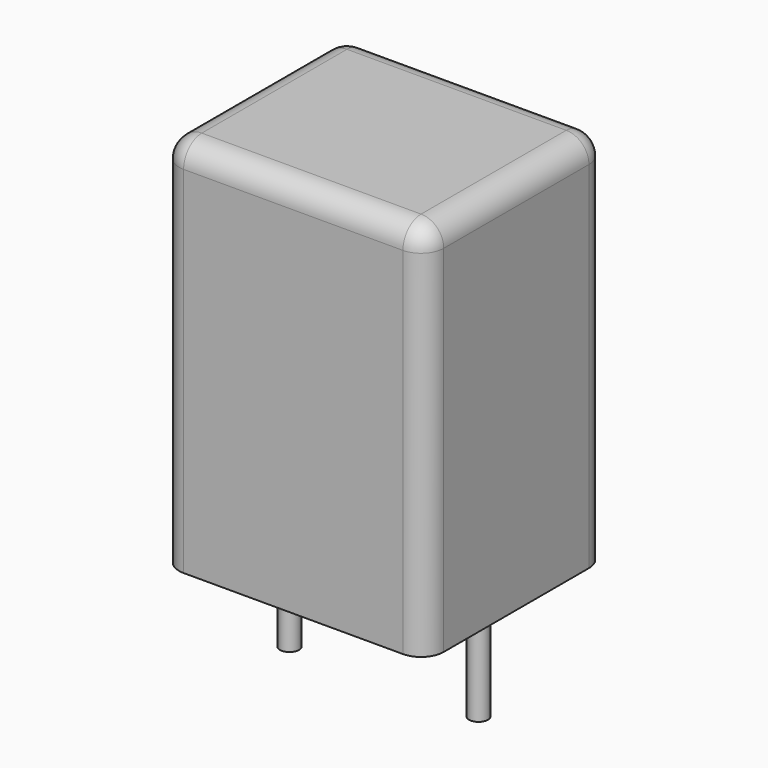
from build123d import *

# Parameters (mm, degrees)
SKETCH_W     = 7
SKETCH_H     = 6
PAD_DEPTH    = 10
FILLET_R     = 0.6
SKETCH001_R  = 0.25
PAD001_DEPTH = 3.2


with BuildPart() as fillet_body:
    # Sketch → Pad (new body)
    with BuildSketch(Plane.XY.offset(0.1)):
        with Locations((2.5, 0)):
            Rectangle(SKETCH_W, SKETCH_H)
    extrude(amount=PAD_DEPTH)

    # Fillet
    fillet_edges = [fillet_body.edges().sort_by_distance(p)[0] for p in [
        (-1, 0, 10.1),
        (-1, -3, 5.1),
        (2.5, -3, 10.1),
        (6, -3, 5.1),
        (6, 0, 10.1),
        (6, 3, 5.1),
        (2.5, 3, 10.1),
        (-1, 3, 5.1),
    ]]
    fillet(fillet_edges, radius=FILLET_R)


with BuildPart() as pad001:
    # Sketch001 → Pad001 (new body)
    with BuildSketch(Plane.XY.offset(0.5)):
        Circle(SKETCH001_R)
        with Locations((5, 0)):
            Circle(SKETCH001_R)
    extrude(amount=-PAD001_DEPTH)


solid = Compound([fillet_body.part, pad001.part])
